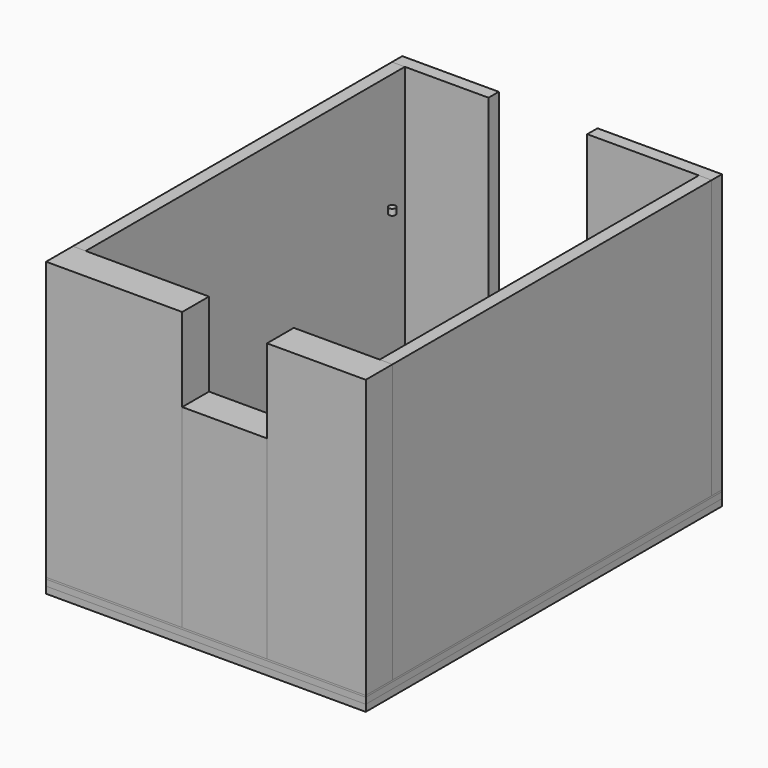
from build123d import *

# Parameters (mm, degrees)
F1_W           = 2865
F1_H           = 3990
F2_DEPTH       = 15
F3_W           = 2865
F3_H           = 3990
F4_DEPTH       = 55
F5_W           = 2865
F5_H           = 3990
F6_DEPTH       = 60
F0_W           = 115
F0_H           = 3575
F9_DEPTH       = 2490
F10_DEPTH      = 2490
F11_DEPTH      = 2490
F0_W_2         = 760
F0_H_2         = 300
F12_DEPTH      = 1740
F14_R          = 30
F15_DEPTH      = 50
F15_DEPTH_BACK = 5


with BuildPart() as f2:
    # F1 (on Top) → F2 (new body)
    with BuildSketch(Plane.XY):
        with Locations((0, -92.5)):
            Rectangle(F1_W, F1_H)
    extrude(amount=-F2_DEPTH)


with BuildPart() as f4:
    # F3 (on face) → F4 (new body)
    with BuildSketch(Plane(origin=(0, 0, -15), x_dir=(1, 0, 0), z_dir=(0, 0, -1))):
        with Locations((0, 92.5)):
            Rectangle(F3_W, F3_H)
    extrude(amount=F4_DEPTH)


with BuildPart() as f6:
    # F5 (on face) → F6 (new body)
    with BuildSketch(Plane(origin=(0, 0, -70), x_dir=(1, 0, 0), z_dir=(0, 0, -1))):
        with Locations((0, 92.5)):
            Rectangle(F5_W, F5_H)
    extrude(amount=F6_DEPTH)


with BuildPart() as f9:
    # F0 (on Top) → F9 (new body)
    with BuildSketch(Plane.XY):
        with Locations((-1375, 0)):
            Rectangle(F0_W, F0_H)
    extrude(amount=F9_DEPTH)


with BuildPart() as f9b:
    # F0 (on Top) → F9, piece 2 (new body)
    with BuildSketch(Plane.XY):
        with Locations((1375, 0)):
            Rectangle(F0_W, F0_H)
    extrude(amount=F9_DEPTH)


with BuildPart() as f10:
    # F0 (on Top) → F10 (new body)
    with BuildSketch(Plane.XY):
        Polygon((-1432.5, 1787.5), (-1317.5, 1787.5), (-567.5, 1787.5), (-567.5, 1902.5), (-1432.5, 1902.5), align=None)
    extrude(amount=F10_DEPTH)


with BuildPart() as f10b:
    # F0 (on Top) → F10, piece 2 (new body)
    with BuildSketch(Plane.XY):
        Polygon((317.5, 1787.5), (1317.5, 1787.5), (1432.5, 1787.5), (1432.5, 1902.5), (317.5, 1902.5), align=None)
    extrude(amount=F10_DEPTH)


with BuildPart() as f11:
    # F0 (on Top) → F11 (new body)
    with BuildSketch(Plane.XY):
        Polygon((-212.5, -1787.5), (-1317.5, -1787.5), (-1432.5, -1787.5), (-1432.5, -2087.5), (-212.5, -2087.5), align=None)
    extrude(amount=F11_DEPTH)


with BuildPart() as f11b:
    # F0 (on Top) → F11, piece 2 (new body)
    with BuildSketch(Plane.XY):
        Polygon((1317.5, -1787.5), (547.5, -1787.5), (547.5, -2087.5), (1432.5, -2087.5), (1432.5, -1787.5), align=None)
    extrude(amount=F11_DEPTH)


with BuildPart() as f12:
    # F0 (on Top) → F12 (new body)
    with BuildSketch(Plane.XY):
        with Locations((167.5, -1937.5)):
            Rectangle(F0_W_2, F0_H_2)
    extrude(amount=F12_DEPTH)


with BuildPart() as f15:
    # F14 (on face) → F15 (new body, two sides)
    with BuildSketch(Plane.XY.offset(2490)) as f15_sk:
        Circle(F14_R)
    extrude(amount=F15_DEPTH)
    extrude(f15_sk.sketch, amount=-F15_DEPTH_BACK)


solid = Compound([f2.part, f4.part, f6.part, f9.part, f9b.part, f10.part, f10b.part, f11.part, f11b.part, f12.part, f15.part])
